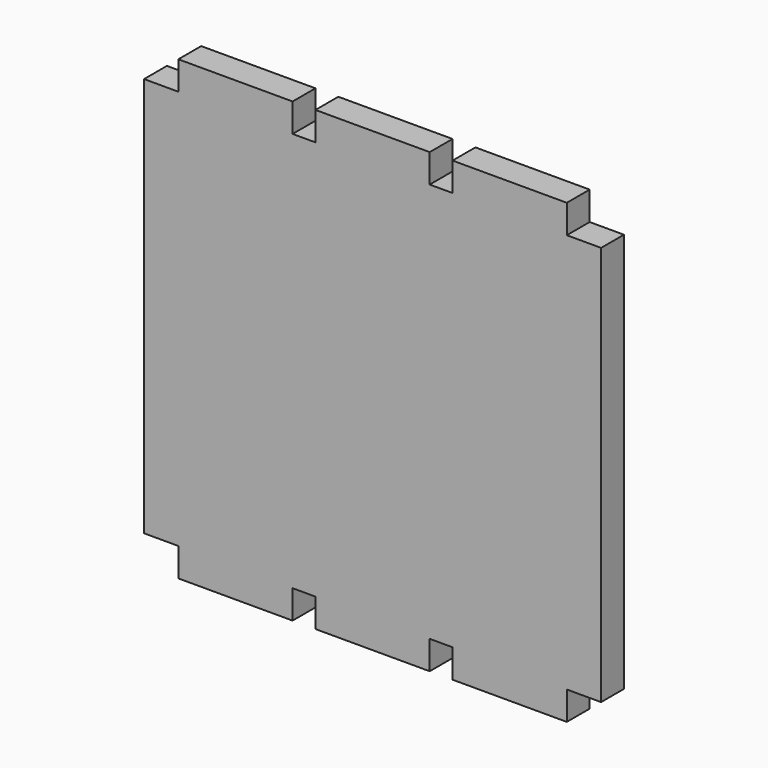
from build123d import *

# Parameters (mm, degrees)
F1_DEPTH = 3.175


with BuildPart() as f1:
    # F0 (on Front) → F1 (new body)
    with BuildSketch(Plane.XZ):
        Polygon((21.59, -22.225), (25.4, -22.225), (25.4, 22.225), (21.59, 22.225), (21.59, 25.4), (8.89, 25.4), (8.89, 22.225), (6.35, 22.225), (6.35, 25.4), (-6.35, 25.4), (-6.35, 22.225), (-8.89, 22.225), (-8.89, 25.4), (-21.59, 25.4), (-21.59, 22.225), (-25.4, 22.225), (-25.4, -22.225), (-21.59, -22.225), (-21.59, -25.4), (-8.89, -25.4), (-8.89, -22.225), (-6.35, -22.225), (-6.35, -25.4), (6.35, -25.4), (6.35, -22.225), (8.89, -22.225), (8.89, -25.4), (21.59, -25.4), align=None)
    extrude(amount=F1_DEPTH)


solid = f1.part
